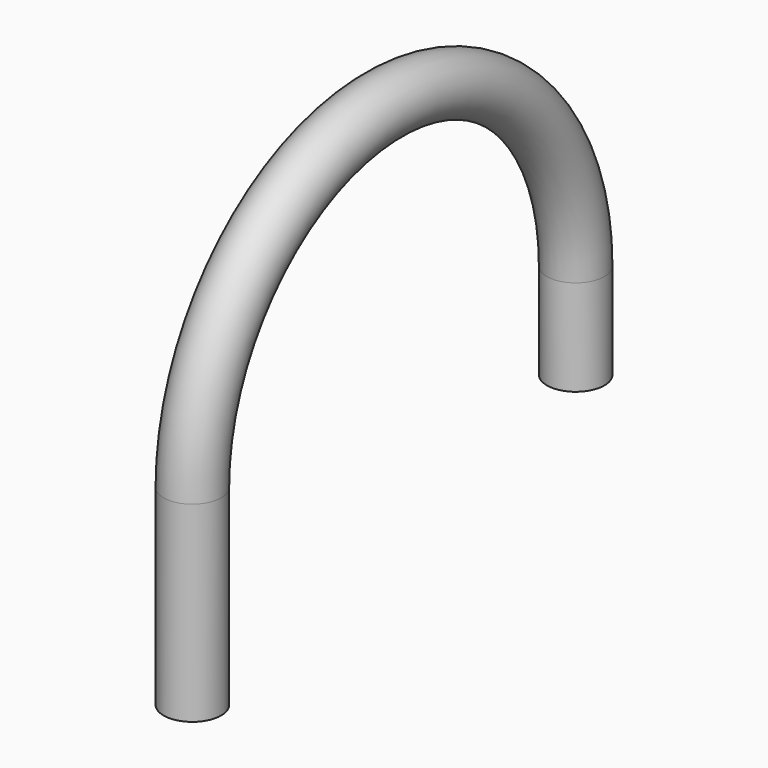
from build123d import *

# Parameters (mm, degrees)
F0_R   = 7.5
F0_R_2 = 6.75


with BuildPart() as f2:
    # F2: sweep along a path in F1
    with BuildLine(Plane.YZ) as f2_path:
        Line((0, 0), (0, 50))
        ThreePointArc((0, 50), (62.5, 112.5), (125, 50))
        Line((125, 50), (125, 25))
    # F0 (on Top) → F2 (sweep)
    with BuildSketch(Plane.XY):
        Circle(F0_R)
        Circle(F0_R_2, mode=Mode.SUBTRACT)
    sweep(path=f2_path.line)


solid = f2.part
